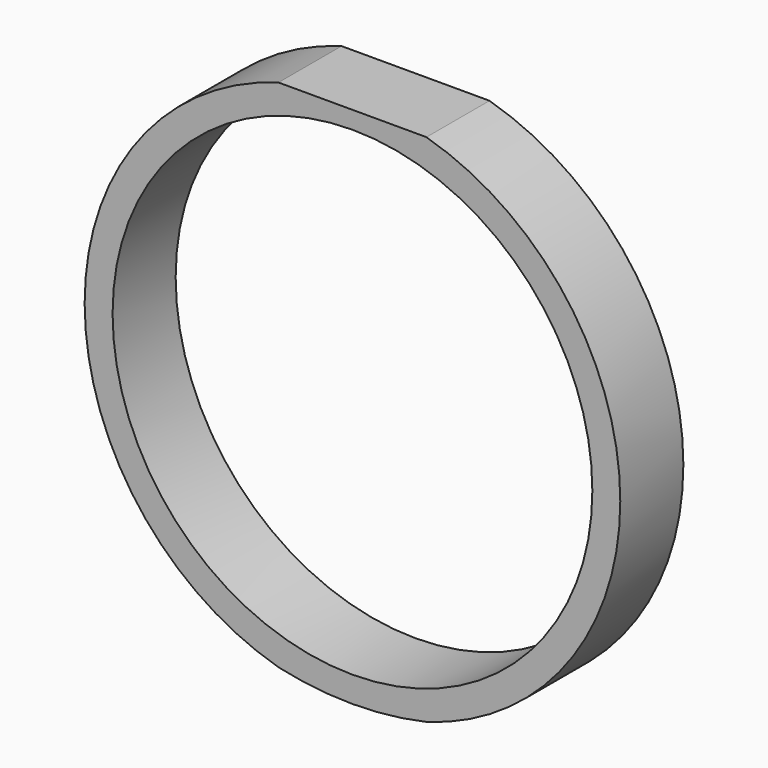
from build123d import *

# Parameters (mm, degrees)
F0_R     = 15.209796
F1_DEPTH = 5


with BuildPart() as f1:
    # F0 (on Front) → F1 (new body)
    with BuildSketch(Plane.XZ):
        with BuildLine():
            Line((4.689748, 16.320772), (-4.689748, 16.320772))
            ThreePointArc((-4.689748, 16.320772), (-16.981205, 0), (-4.689748, -16.320772))
            ThreePointArc((-4.689748, -16.320772), (0, -16.845761), (4.689748, -16.320772))
            ThreePointArc((4.689748, -16.320772), (16.981205, 0), (4.689748, 16.320772))
        make_face()
        Circle(F0_R, mode=Mode.SUBTRACT)
    extrude(amount=F1_DEPTH)


solid = f1.part
